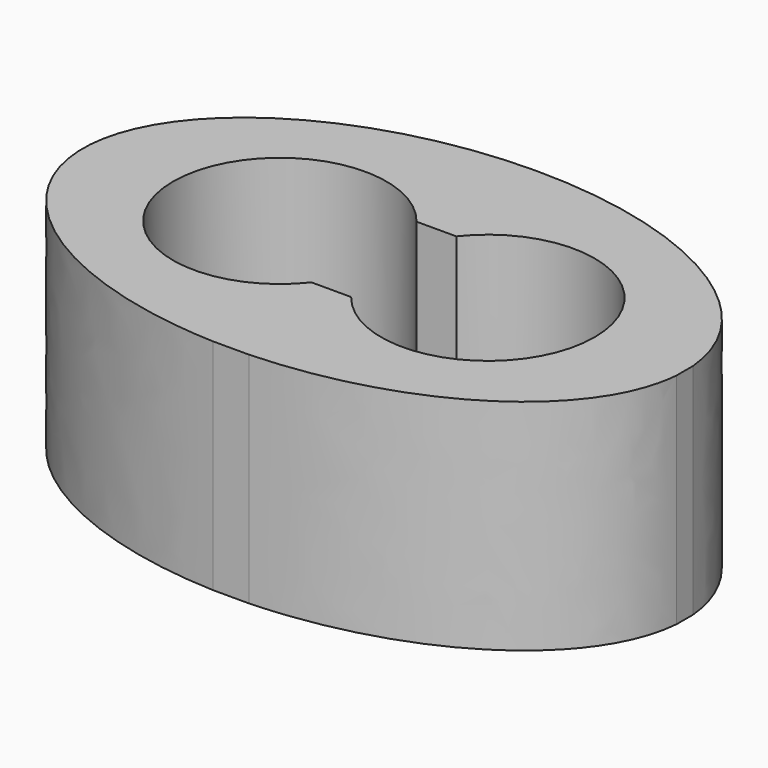
from build123d import *

# Parameters (mm, degrees)
F0_W     = 55
F0_H     = 35
F1_DEPTH = 20
F3_DEPTH = 15
F4_DEPTH = 20
F6_DEPTH = 25


with BuildPart() as f1:
    # F0 (on Top) → F1 (new body)
    with BuildSketch(Plane.XY):
        with Locations((27.5, 17.5)):
            Rectangle(F0_W, F0_H)
        with Locations((27.5, 17.5)):
            Rectangle(F0_W, F0_H)
    extrude(amount=F1_DEPTH)

    # F2 (on face) → F3 (cut)
    with BuildSketch(Plane.XY.offset(20)):
        with BuildLine():
            ThreePointArc((25.6852130745, 23.5), (26.8008402334, 21.6961543331), (27.5, 19.6937410968))
            ThreePointArc((27.5, 19.6937410968), (28.1991597666, 21.6961543331), (29.3147869255, 23.5))
            Line((29.3147869255, 23.5), (25.6852130745, 23.5))
        make_face()
        with BuildLine():
            ThreePointArc((27.5, 15.3062589032), (27.687298385, 16.3960298917), (27.75, 17.5))
            ThreePointArc((27.75, 17.5), (27.687298385, 18.6039701083), (27.5, 19.6937410968))
            ThreePointArc((27.5, 19.6937410968), (27.25, 17.5), (27.5, 15.3062589032))
        make_face()
        with BuildLine():
            ThreePointArc((27.5, 15.3062589032), (27.25, 17.5), (27.5, 19.6937410968))
            ThreePointArc((27.5, 19.6937410968), (26.8008402334, 21.6961543331), (25.6852130745, 23.5))
            Line((25.6852130745, 23.5), (18.1248368174, 23.5))
            Line((18.1248368174, 23.5), (18.1248368174, 18.4921772871))
            ThreePointArc((18.1248368174, 18.4921772871), (18.7499456038, 18.1614995021), (19, 17.5))
            ThreePointArc((19, 17.5), (18.7499456038, 16.8385004979), (18.1248368174, 16.5078227129))
            Line((18.1248368174, 16.5078227129), (18.1248368174, 11.5))
            Line((18.1248368174, 11.5), (25.6852130745, 11.5))
            ThreePointArc((25.6852130745, 11.5), (26.8008402334, 13.3038456669), (27.5, 15.3062589032))
        make_face()
        with BuildLine():
            Line((18.1248368174, 23.5), (25.6852130745, 23.5))
            ThreePointArc((25.6852130745, 23.5), (8.25, 17.5), (25.6852130745, 11.5))
            Line((25.6852130745, 11.5), (18.1248368174, 11.5))
            Line((18.1248368174, 11.5), (18.1248368174, 16.5078227129))
            ThreePointArc((18.1248368174, 16.5078227129), (17, 17.5), (18.1248368174, 18.4921772871))
            Line((18.1248368174, 18.4921772871), (18.1248368174, 23.5))
        make_face()
        with BuildLine():
            ThreePointArc((27.5, 19.6937410968), (27.687298385, 18.6039701083), (27.75, 17.5))
            ThreePointArc((27.75, 17.5), (27.687298385, 16.3960298917), (27.5, 15.3062589032))
            ThreePointArc((27.5, 15.3062589032), (28.1991597666, 13.3038456669), (29.3147869255, 11.5))
            Line((29.3147869255, 11.5), (37.1248368174, 11.5))
            Line((37.1248368174, 11.5), (37.1248368174, 16.5078227129))
            ThreePointArc((37.1248368174, 16.5078227129), (36, 17.5), (37.1248368174, 18.4921772871))
            Line((37.1248368174, 18.4921772871), (37.1248368174, 23.5))
            Line((37.1248368174, 23.5), (29.3147869255, 23.5))
            ThreePointArc((29.3147869255, 23.5), (28.1991597666, 21.6961543331), (27.5, 19.6937410968))
        make_face()
        with BuildLine():
            ThreePointArc((29.3147869255, 11.5), (28.1991597666, 13.3038456669), (27.5, 15.3062589032))
            ThreePointArc((27.5, 15.3062589032), (26.8008402334, 13.3038456669), (25.6852130745, 11.5))
            Line((25.6852130745, 11.5), (29.3147869255, 11.5))
        make_face()
        with BuildLine():
            ThreePointArc((46.75, 17.5), (40.1726702101, 26.7193635213), (29.3147869255, 23.5))
            Line((29.3147869255, 23.5), (37.1248368174, 23.5))
            Line((37.1248368174, 23.5), (37.1248368174, 18.4921772871))
            ThreePointArc((37.1248368174, 18.4921772871), (37.7499456038, 18.1614995021), (38, 17.5))
            ThreePointArc((38, 17.5), (37.7499456038, 16.8385004979), (37.1248368174, 16.5078227129))
            Line((37.1248368174, 16.5078227129), (37.1248368174, 11.5))
            Line((37.1248368174, 11.5), (29.3147869255, 11.5))
            ThreePointArc((29.3147869255, 11.5), (40.1726702101, 8.2806364787), (46.75, 17.5))
        make_face()
    extrude(amount=-F3_DEPTH, mode=Mode.SUBTRACT)

    # F4 (cut): faces of the model
    f4_faces = [f1.faces().sort_by_distance(p)[0] for p in [
        (18, 17.5, 20),
        (37, 17.5, 20),
    ]]
    extrude(f4_faces, amount=-F4_DEPTH, mode=Mode.SUBTRACT)

    # F5 (on face) → F6 (cut)
    with BuildSketch(Plane.XY.offset(20)):
        with BuildLine():
            add(Edge.make_bspline(
                [(55, 18.4103445183), (51.6957322132, 57.4114078131), (8.1569687974, 29.882241531), (-35.3817946184, 2.3530752488), (25.883112617, 0)],
                knots=[0.0538621738, 0.0538621738, 0.0538621738, 2.3529842643, 2.3529842643, 4.6521063548, 4.6521063548, 4.6521063548], degree=2, weights=[1, 0.4088880636, 1, 0.4088880636, 1]))
            Line((55, 18.4103445183), (55, 35))
            Line((55, 35), (0, 35))
            Line((0, 35), (0, 0))
            Line((0, 0), (25.883112617, 0))
        make_face()
        with BuildLine():
            Line((55, 0), (55, 16.5260798265))
            add(Edge.make_bspline(
                [(29.1966492756, 0), (53.6795374022, 0.9403438391), (55, 16.5260798265)],
                knots=[4.7726716059, 4.7726716059, 4.7726716059, 6.2293231333, 6.2293231333, 6.2293231333], degree=2, weights=[1, 0.7462898548, 1]))
            Line((29.1966492756, 0), (55, 0))
        make_face()
    extrude(amount=-F6_DEPTH, mode=Mode.SUBTRACT)


solid = f1.part
